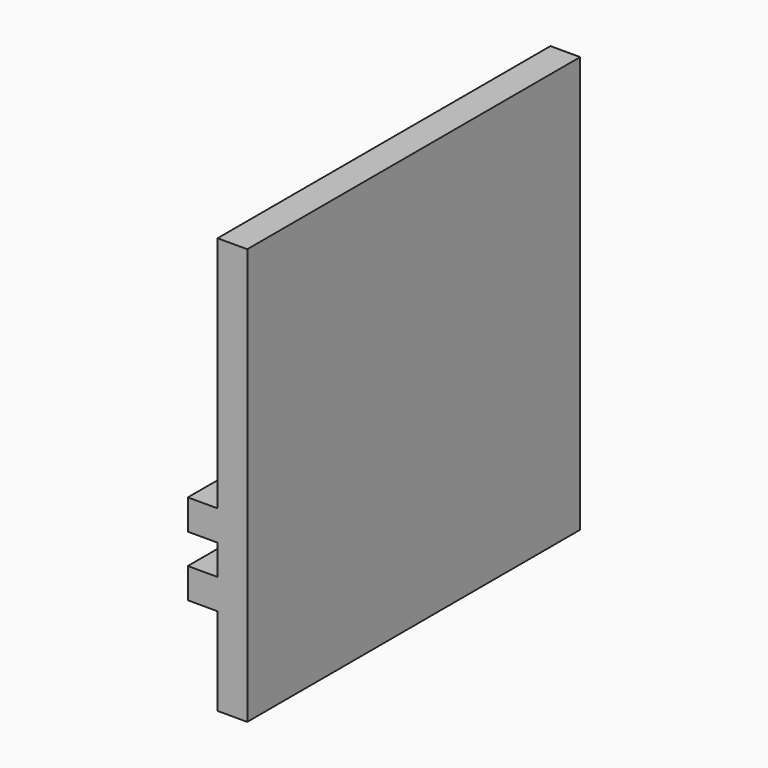
from build123d import *

# Parameters (mm, degrees)
F0_W     = 350
F0_H     = 350
F1_DEPTH = 25
F2_W     = 350
F2_H     = 25.4
F3_DEPTH = 25


with BuildPart() as f1:
    # F0 (on Right) → F1 (new body)
    with BuildSketch(Plane.YZ):
        Rectangle(F0_W, F0_H)
    extrude(amount=F1_DEPTH)

    # F2 (on face) → F3 (join)
    with BuildSketch(Plane(origin=(0, 0, 0), x_dir=(0, -1, 0), z_dir=(-1, 0, 0))):
        with Locations((0, -37.7)):
            Rectangle(F2_W, F2_H)
        with Locations((0, -88.5)):
            Rectangle(F2_W, F2_H)
    extrude(amount=F3_DEPTH)


solid = f1.part
